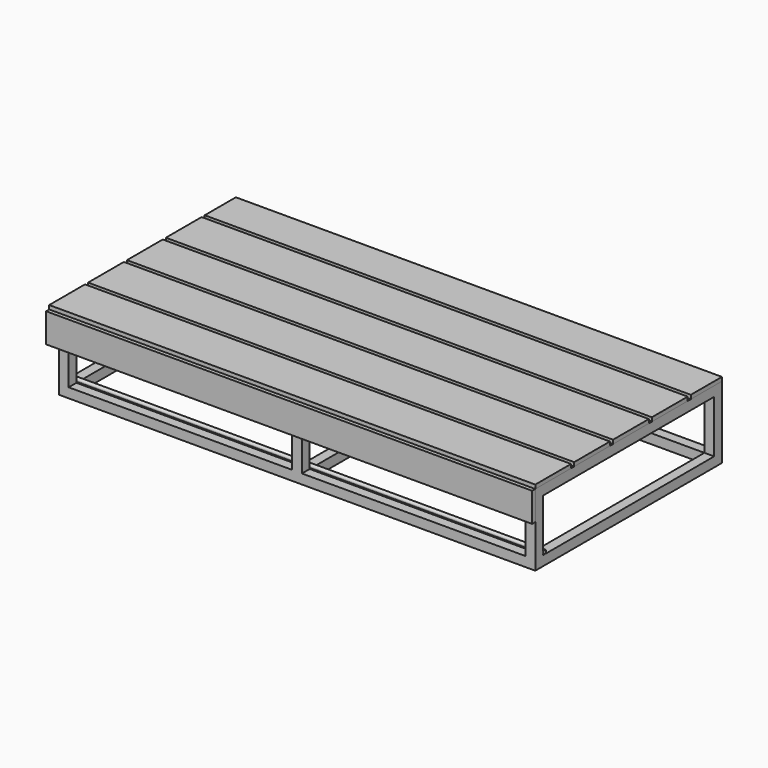
from build123d import *

# Parameters (mm, degrees)
F0_W      = 50
F0_H      = 50
F0_H_2    = 1100
F1_DEPTH  = 50
F2_W      = 50
F2_H      = 50
F3_DEPTH  = 270
F4_W      = 2450
F4_H      = 1200
F4_W_2    = 25
F4_H_2    = 1100
F4_W_3    = 50
F5_DEPTH  = 50
F6_R      = 9
F7_DEPTH  = 2450
F9_DEPTH  = 20
F10_W     = 2500
F10_H     = 1200
F11_DEPTH = 20
F12_W     = 20
F12_H     = 20
F13_DEPTH = 2500


with BuildPart() as f1:
    # F0 (on Top) → F1 (new body)
    with BuildSketch(Plane.XY):
        with Locations((1200, -575)):
            Rectangle(F0_W, F0_H)
        Polygon((-1175, -600), (1175, -600), (1175, -550), (25, -550), (0, -550), (-25, -550), (-1175, -550), align=None)
        with Locations((1200, 0)):
            Rectangle(F0_W, F0_H_2)
        with Locations((-1200, -575)):
            Rectangle(F0_W, F0_H)
        with Locations((1200, 575)):
            Rectangle(F0_W, F0_H)
        with Locations((-1200, 0)):
            Rectangle(F0_W, F0_H_2)
        Polygon((25, 550), (1175, 550), (1175, 600), (-1175, 600), (-1175, 550), (-25, 550), (0, 550), align=None)
        with Locations((-1200, 575)):
            Rectangle(F0_W, F0_H)
        Polygon((0, -550), (25, -550), (25, 0), (25, 550), (0, 550), (0, 0), align=None)
        Polygon((-25, 0), (-25, -550), (0, -550), (0, 0), (0, 550), (-25, 550), align=None)
    extrude(amount=F1_DEPTH)

    # F2 (on face) → F3 (join)
    with BuildSketch(Plane.XY.offset(50)):
        with Locations((0, 575)):
            Rectangle(F2_W, F2_H)
        with Locations((-1200, 575)):
            Rectangle(F2_W, F2_H)
        with Locations((-1200, -575)):
            Rectangle(F2_W, F2_H)
        with Locations((0, -575)):
            Rectangle(F2_W, F2_H)
        with Locations((1200, -575)):
            Rectangle(F2_W, F2_H)
        with Locations((1200, 575)):
            Rectangle(F2_W, F2_H)
    extrude(amount=F3_DEPTH)

    # F4 (on face) → F5 (join)
    with BuildSketch(Plane.XY.offset(320)):
        Rectangle(F4_W, F4_H)
        Polygon((1175, 550), (1175, -550), (625, -550), (600, -550), (575, -550), (25, -550), (-25, -550), (-575, -550), (-600, -550), (-625, -550), (-1175, -550), (-1175, 550), (-625, 550), (-600, 550), (-575, 550), (-25, 550), (25, 550), (575, 550), (600, 550), (625, 550), align=None, mode=Mode.SUBTRACT)
        with Locations((-587.5, 0)):
            Rectangle(F4_W_2, F4_H_2)
        with Locations((-612.5, 0)):
            Rectangle(F4_W_2, F4_H_2)
        with Locations((612.5, 0)):
            Rectangle(F4_W_2, F4_H_2)
        with Locations((587.5, 0)):
            Rectangle(F4_W_2, F4_H_2)
        Rectangle(F4_W_3, F4_H_2)
    extrude(amount=F5_DEPTH)

    # F6 (on face) → F7 (join)
    with BuildSketch(Plane(origin=(-1225, 0, 0), x_dir=(0, -1, 0), z_dir=(-1, 0, 0))):
        with Locations((540, 60)):
            Circle(F6_R)
        with BuildLine():
            ThreePointArc((550.5, 60), (529.625753, 61.620185), (550, 56.798438))
            ThreePointArc((550, 56.798438), (550.374247, 58.379815), (550.5, 60))
        make_face()
        with Locations((540, 60)):
            Circle(F6_R, mode=Mode.SUBTRACT)
    extrude(amount=-F7_DEPTH)


with BuildPart() as f9:
    # F8 (on face) → F9 (new body)
    with BuildSketch(Plane.XZ.offset(600)):
        Polygon((1225, 220), (1225, 370), (-1225, 370), (-1275, 370), (-1275, 220), align=None)
    extrude(amount=F9_DEPTH)


with BuildPart() as f11:
    # F10 (on face) → F11 (new body)
    with BuildSketch(Plane.XY.offset(370)):
        with Locations((-25, 0)):
            Rectangle(F10_W, F10_H)
    extrude(amount=F11_DEPTH)

    # F12 (on face) → F13 (cut, through all)
    with BuildSketch(Plane(origin=(-1275, 0, 0), x_dir=(0, -1, 0), z_dir=(-1, 0, 0))):
        with Locations((610, 380)):
            Rectangle(F12_W, F12_H)
        with Locations((360, 380)):
            Rectangle(F12_W, F12_H)
        with Locations((110, 380)):
            Rectangle(F12_W, F12_H)
        with Locations((-140, 380)):
            Rectangle(F12_W, F12_H)
        with Locations((-390, 380)):
            Rectangle(F12_W, F12_H)
    extrude(amount=-F13_DEPTH, mode=Mode.SUBTRACT)


solid = Compound([f1.part, f9.part, f11.part])
